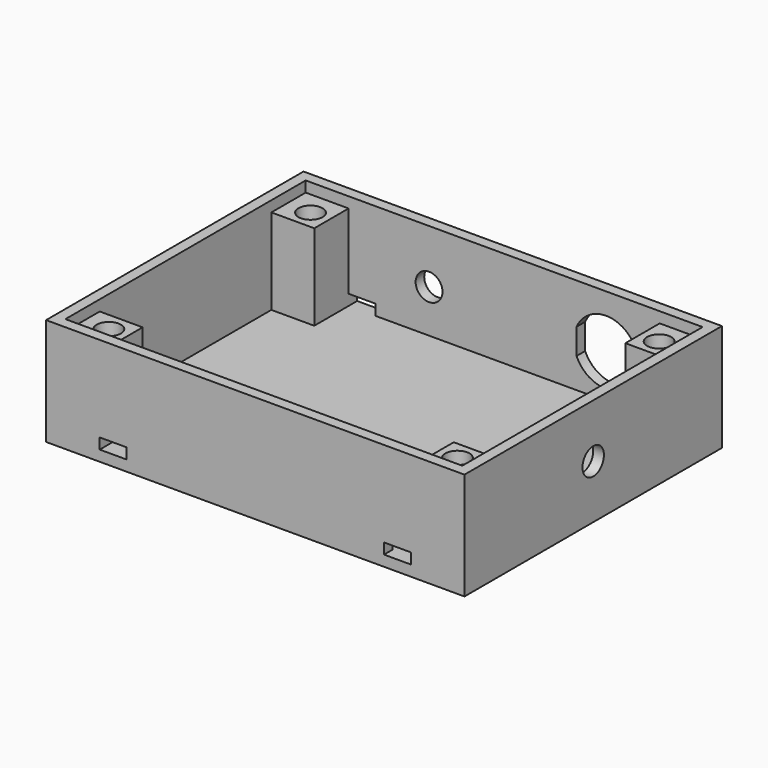
from build123d import *

# Parameters (mm, degrees)
SKETCH_W        = 78
SKETCH_H        = 60
PAD_DEPTH       = 20
POCKET_DEPTH    = 18
SKETCH002_W     = 74
SKETCH002_H     = 56
POCKET001_DEPTH = 2
SKETCH003_R     = 2.25
POCKET002_DEPTH = 10
SKETCH004_R     = 2.5
POCKET003_DEPTH = 2
SKETCH005_R     = 2.5
POCKET004_DEPTH = 2
SKETCH006_W     = 5
SKETCH006_H     = 2
POCKET005_DEPTH = 60.001


with BuildPart() as part:
    # Sketch → Pad (new body)
    with BuildSketch(Plane.XY):
        with Locations((39, 30)):
            Rectangle(SKETCH_W, SKETCH_H)
    extrude(amount=PAD_DEPTH)

    # Sketch001 (on Face6 of Pad) → Pocket (cut)
    with BuildSketch(Plane.XY.offset(20)):
        Polygon((2, 50), (2, 10), (10, 10), (10, 2), (68, 2), (68, 10), (76, 10), (76, 50), (68, 50), (68, 58), (10, 58), (10, 50), align=None)
    extrude(amount=-POCKET_DEPTH, mode=Mode.SUBTRACT)

    # Sketch002 (on Face5 of Pocket) → Pocket001 (cut)
    with BuildSketch(Plane.XY.offset(20)):
        with Locations((39, 30)):
            Rectangle(SKETCH002_W, SKETCH002_H)
    extrude(amount=-POCKET001_DEPTH, mode=Mode.SUBTRACT)

    # Sketch003 (on Face26 of Pocket001) → Pocket002 (cut)
    with BuildSketch(Plane.XY.offset(18)):
        with Locations((6.5, 53.5)):
            Circle(SKETCH003_R)
        with Locations((71.5, 53.5)):
            Circle(SKETCH003_R)
        with Locations((6.5, 6.5)):
            Circle(SKETCH003_R)
        with Locations((71.5, 6.5)):
            Circle(SKETCH003_R)
    extrude(amount=-POCKET002_DEPTH, mode=Mode.SUBTRACT)

    # Sketch004 (on Face3 of Pocket002) → Pocket003 (cut)
    with BuildSketch(Plane.YZ.offset(78)):
        with Locations((30, 10)):
            Circle(SKETCH004_R)
    extrude(amount=-POCKET003_DEPTH, mode=Mode.SUBTRACT)

    # Sketch005 (on Face6 of Pocket003) → Pocket004 (cut)
    with BuildSketch(Plane(origin=(0, 60, 0), x_dir=(-1, 0, 0), z_dir=(0, 1, 0))):
        with Locations((-25, 10)):
            Circle(SKETCH005_R)
        with BuildLine():
            Line((-63.5, 7.602084), (-63.5, 12.397916))
            ThreePointArc((-52.5, 12.397916), (-58, 16), (-63.5, 12.397916))
            Line((-52.5, 7.602084), (-52.5, 12.397916))
            ThreePointArc((-63.5, 7.602084), (-58, 4), (-52.5, 7.602084))
        make_face()
    extrude(amount=-POCKET004_DEPTH, mode=Mode.SUBTRACT)

    # Sketch006 (on Face6 of Pocket004) → Pocket005 (cut, through all)
    with BuildSketch(Plane(origin=(0, 60, 0), x_dir=(-1, 0, 0), z_dir=(0, 1, 0))):
        with Locations((-65.5, 3)):
            Rectangle(SKETCH006_W, SKETCH006_H)
        with Locations((-12.5, 3)):
            Rectangle(SKETCH006_W, SKETCH006_H)
    extrude(amount=-POCKET005_DEPTH, mode=Mode.SUBTRACT)


solid = part.part
